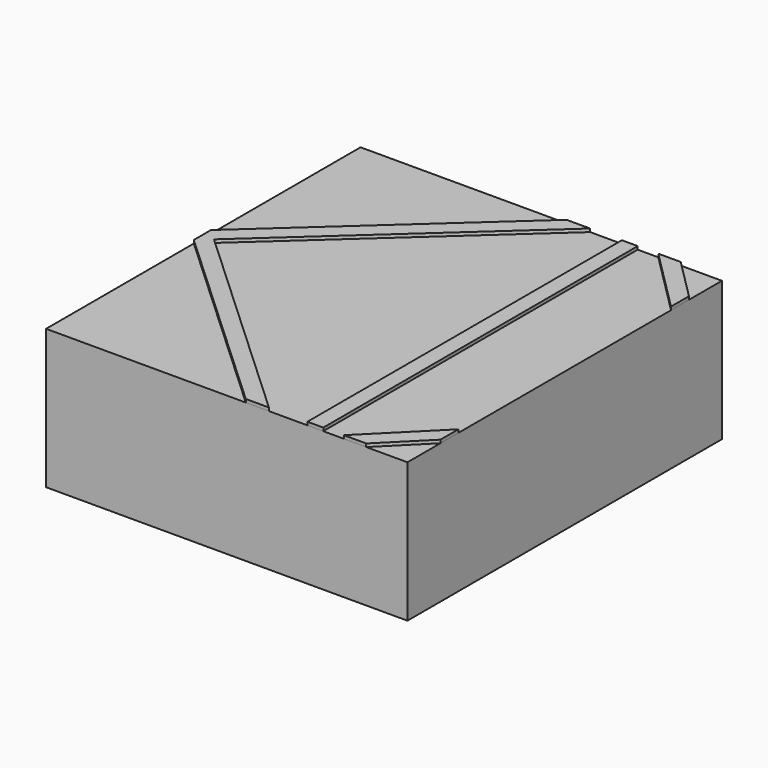
from build123d import *

# Parameters (mm, degrees)
F0_W     = 723.9
F0_H     = 787.4
F1_DEPTH = 279.4
F2_W     = 31.75
F2_H     = 787.4
F3_DEPTH = 6.35


with BuildPart() as f1:
    # F0 (on Top) → F1 (new body)
    with BuildSketch(Plane.XY):
        Rectangle(F0_W, F0_H)
    extrude(amount=F1_DEPTH)


with BuildPart() as f3:
    # F2 (on face) → F3 (new body)
    with BuildSketch(Plane.XY.offset(279.4)):
        Polygon((50.8, 393.7), (-361.95, 19.05), (-338.547667, -2.586905), (98.039601, 393.7), align=None)
        Polygon((-338.547667, -2.586905), (-361.95, 19.05), (-361.95, -23.829022), align=None)
        Polygon((84.477667, -393.7), (-338.547667, -2.586905), (-361.95, -23.829022), (38.1, -393.7), align=None)
        with Locations((177.414601, 0)):
            Rectangle(F2_W, F2_H)
        Polygon((361.95, 311.15), (279.4, 393.7), (234.498719, 393.7), (361.95, 266.248719), align=None)
        Polygon((361.95, -266.248719), (234.498719, -393.7), (279.4, -393.7), (361.95, -311.15), align=None)
    extrude(amount=F3_DEPTH)


solid = Compound([f1.part, f3.part])
